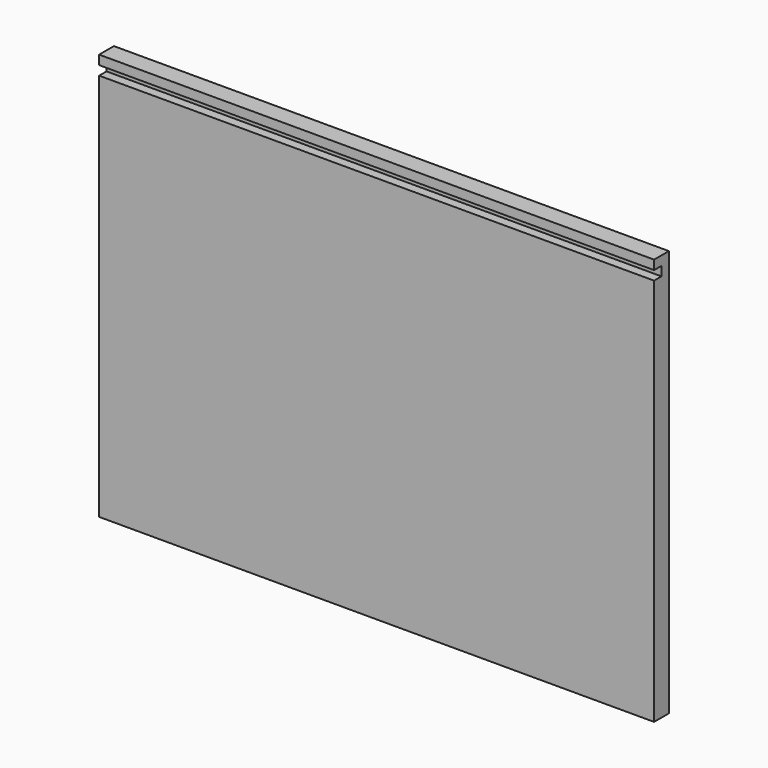
from build123d import *

# Parameters (mm, degrees)
F1_DEPTH = 5
F2_W     = 150
F2_H     = 2.5
F3_DEPTH = 2.5


with BuildPart() as f1:
    # F0 (on Front) → F1 (new body)
    with BuildSketch(Plane.XZ):
        Polygon((-75, -52.5), (75, -52.5), (75, 52.5), (75, 57.5), (-75, 57.5), (-75, 52.5), align=None)
    extrude(amount=F1_DEPTH)

    # F2 (on face) → F3 (cut)
    with BuildSketch(Plane.XZ.offset(5)):
        with Locations((0, 53.75)):
            Rectangle(F2_W, F2_H)
    extrude(amount=-F3_DEPTH, mode=Mode.SUBTRACT)


solid = f1.part
